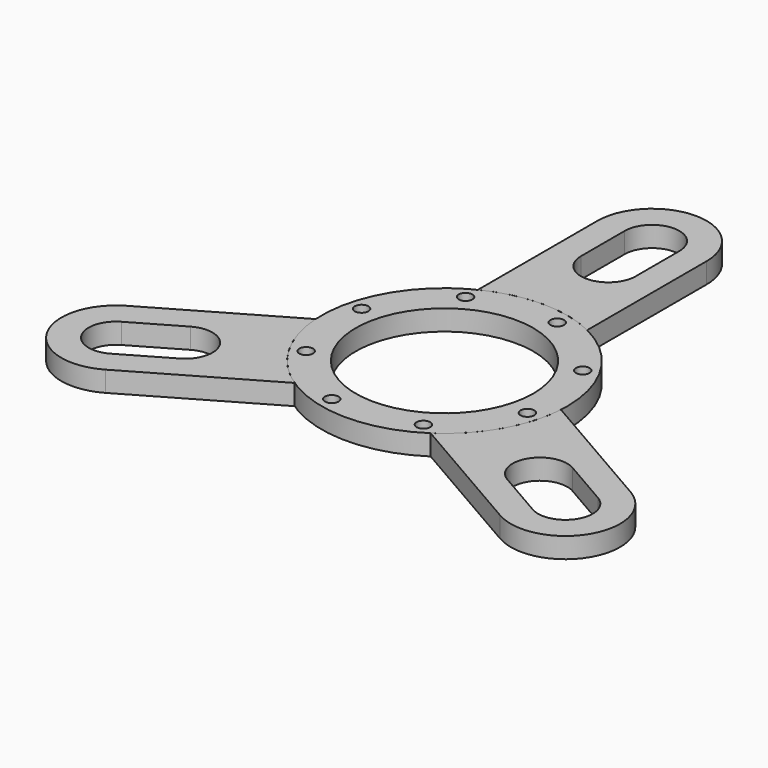
from build123d import *

# Parameters (mm, degrees)
SKETCH_R           = 90
SKETCH_R_2         = 65
PAD_DEPTH          = 15
SKETCH001_R        = 5
POCKET_DEPTH       = 525.001
POLARPATTERN_COUNT = 8
PAD001_DEPTH       = 15
PAD002_DEPTH       = 15
PAD003_DEPTH       = 15


with BuildPart() as polarpattern:
    # Sketch → Pad (new body)
    with BuildSketch(Plane.XY):
        Circle(SKETCH_R)
        Circle(SKETCH_R_2, mode=Mode.SUBTRACT)
    extrude(amount=PAD_DEPTH)

    # Sketch001 → Pocket (cut, through all)
    with BuildSketch(Plane.XY.offset(15)):
        with Locations((-69.282032, -40)):
            Circle(SKETCH001_R)
    pocket = extrude(amount=-POCKET_DEPTH, mode=Mode.SUBTRACT)

    # PolarPattern: Pocket ×8 about axis
    polarpattern_axis = Axis((0, 0, 15), (0, 0, 1))
    for i in range(1, POLARPATTERN_COUNT):
        add(pocket.rotate(polarpattern_axis, i * 360 / POLARPATTERN_COUNT), mode=Mode.SUBTRACT)


with BuildPart() as pad001:
    # Sketch002 → Pad001 (new body)
    with BuildSketch(Plane.XY):
        with BuildLine():
            Line((-184.544864, -60.359005), (-89.8212, -5.670273))
            ThreePointArc((-89.8212, -5.670273), (-77.942286, -45), (-49.8212, -74.952305))
            Line((-144.544864, -129.641038), (-49.8212, -74.952305))
            ThreePointArc((-184.544864, -60.359005), (-199.185843, -115), (-144.544864, -129.641038))
        make_face()
        with BuildLine():
            ThreePointArc((-174.544827, -77.679492), (-181.865335, -105), (-154.544827, -112.320508))
            Line((-154.544827, -112.320508), (-119.903811, -92.320508))
            ThreePointArc((-119.903811, -92.320508), (-112.583302, -65), (-139.903811, -57.679492))
            Line((-174.544827, -77.679492), (-139.903811, -57.679492))
        make_face(mode=Mode.SUBTRACT)
    extrude(amount=PAD001_DEPTH)


with BuildPart() as pad002:
    # Sketch003 → Pad002 (new body)
    with BuildSketch(Plane(origin=(0, 0, 0), x_dir=(-0.5, 0.866025, 0), z_dir=(0, 0, 1))):
        with BuildLine():
            Line((-184.544864, -60.359005), (-89.8212, -5.670273))
            ThreePointArc((-89.8212, -5.670273), (-77.942286, -45), (-49.8212, -74.952305))
            Line((-144.544864, -129.641038), (-49.8212, -74.952305))
            ThreePointArc((-184.544864, -60.359005), (-199.185843, -115), (-144.544864, -129.641038))
        make_face()
        with BuildLine():
            ThreePointArc((-174.544827, -77.679492), (-181.865335, -105), (-154.544827, -112.320508))
            Line((-154.544827, -112.320508), (-119.903811, -92.320508))
            ThreePointArc((-119.903811, -92.320508), (-112.583302, -65), (-139.903811, -57.679492))
            Line((-174.544827, -77.679492), (-139.903811, -57.679492))
        make_face(mode=Mode.SUBTRACT)
    extrude(amount=PAD002_DEPTH)


with BuildPart() as pad003:
    # Sketch004 → Pad003 (new body)
    with BuildSketch(Plane(origin=(0, 0, 0), x_dir=(-0.5, -0.866025, 0), z_dir=(0, 0, 1))):
        with BuildLine():
            Line((-184.544864, -60.359005), (-89.8212, -5.670273))
            ThreePointArc((-89.8212, -5.670273), (-77.942286, -45), (-49.8212, -74.952305))
            Line((-144.544864, -129.641038), (-49.8212, -74.952305))
            ThreePointArc((-184.544864, -60.359005), (-199.185843, -115), (-144.544864, -129.641038))
        make_face()
        with BuildLine():
            ThreePointArc((-174.544827, -77.679492), (-181.865335, -105), (-154.544827, -112.320508))
            Line((-154.544827, -112.320508), (-119.903811, -92.320508))
            ThreePointArc((-119.903811, -92.320508), (-112.583302, -65), (-139.903811, -57.679492))
            Line((-174.544827, -77.679492), (-139.903811, -57.679492))
        make_face(mode=Mode.SUBTRACT)
    extrude(amount=PAD003_DEPTH)


solid = Compound([polarpattern.part, pad001.part, pad002.part, pad003.part])
